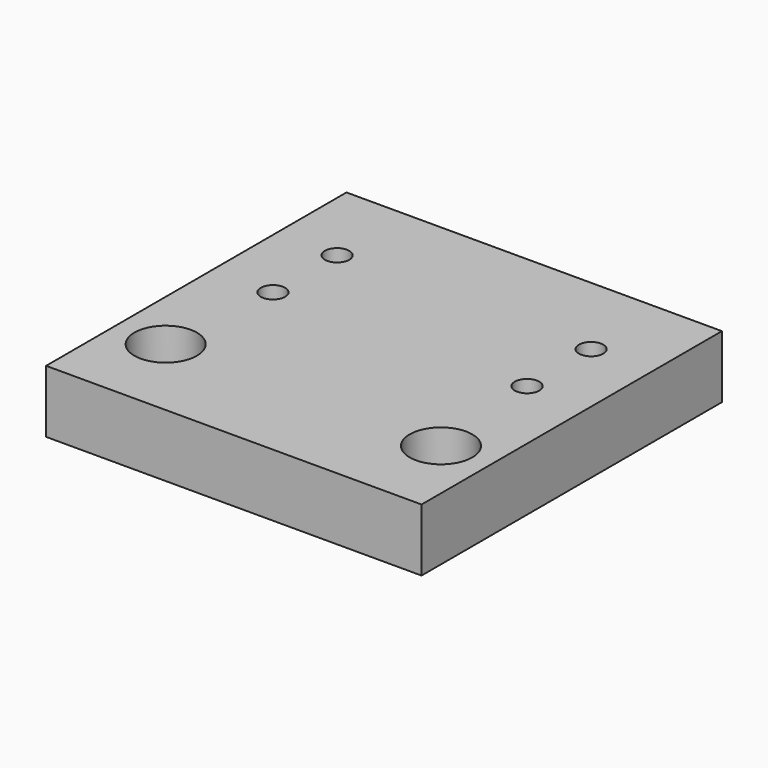
from build123d import *

# Parameters (mm, degrees)
F0_W           = 30
F0_H           = 30
F1_DEPTH       = 5
F3_D           = 3.2
F3_CBORE_D     = 5
F3_CBORE_DEPTH = 3
F4_D           = 1.95


with BuildPart() as f1:
    # F0 (on Top) → F1 (new body)
    with BuildSketch(Plane.XY):
        with Locations((-62.535277, 55.776885)):
            Rectangle(F0_W, F0_H)
    extrude(amount=-F1_DEPTH)

    # F3 (through all)
    with Locations(Plane.XY):
        with Locations((-73.535277, 47.719706), (-51.535277, 47.719706)):
            CounterBoreHole(F3_D / 2, F3_CBORE_D / 2, F3_CBORE_DEPTH)

    # F4 (through all)
    with Locations(Plane.XY):
        with Locations((-52.385277, 57.376885), (-52.385277, 63.776885), (-72.685277, 57.376885), (-72.685277, 63.776885)):
            Hole(F4_D / 2)


solid = f1.part
